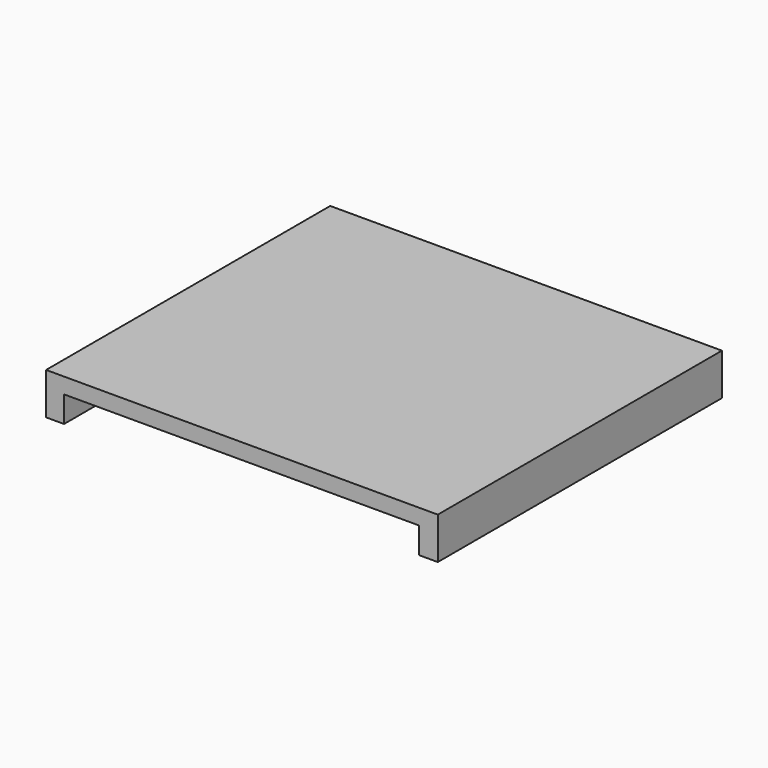
from build123d import *

# Parameters (mm, degrees)
F0_W     = 75
F0_H     = 68
F1_DEPTH = 3
F2_W     = 3.438631
F2_H     = 68
F3_W     = 3.604858
F3_H     = 68
F4_DEPTH = 5


with BuildPart() as f1:
    # F0 (on Top) → F1 (new body)
    with BuildSketch(Plane.XY):
        Rectangle(F0_W, F0_H)
    extrude(amount=F1_DEPTH)

    # F2 (on face) + F3 (on face) → F4 (join)
    with BuildSketch(Plane(origin=(0, 0, 0), x_dir=(1, 0, 0), z_dir=(0, 0, -1))):
        with Locations((-35.780684, 0)):
            Rectangle(F2_W, F2_H)
    with BuildSketch(Plane(origin=(0, 0, 0), x_dir=(1, 0, 0), z_dir=(0, 0, -1))):
        with Locations((35.697571, 0)):
            Rectangle(F3_W, F3_H)
    extrude(amount=F4_DEPTH)


solid = f1.part
